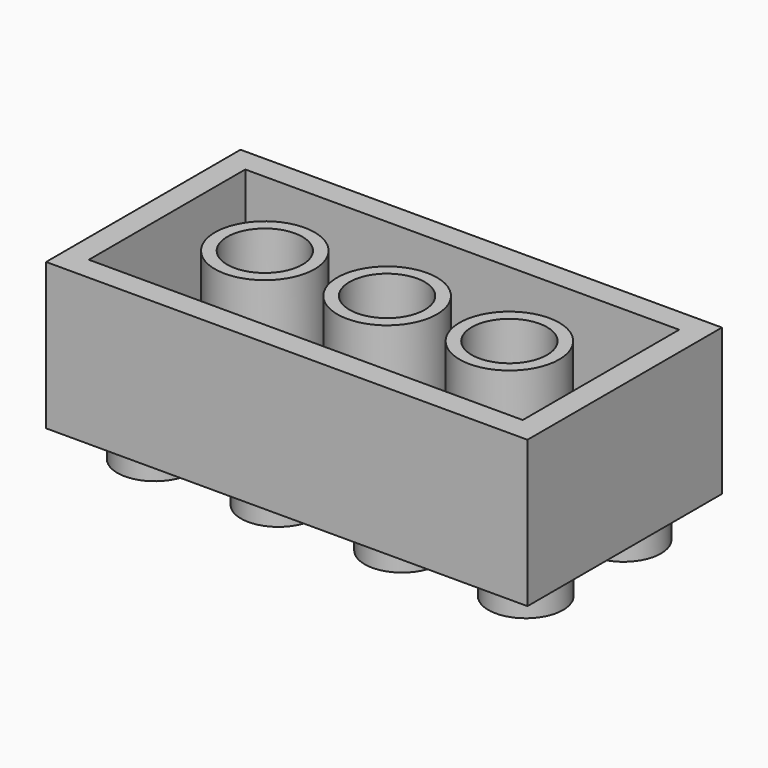
from build123d import *

# Parameters (mm, degrees)
F0_W     = 31.548
F0_H     = 15.928
F0_W_2   = 28.434
F0_H_2   = 12.814
F1_DEPTH = 9.6
F2_DEPTH = 25
F3_DEPTH = 1.557
F4_R     = 3.267
F4_R_2   = 2.467
F5_DEPTH = 8.043
F6_R     = 2.45
F7_DEPTH = 2.1


with BuildPart() as f1:
    # F0 (on Top) → F1 (new body)
    with BuildSketch(Plane.XY):
        with Locations((-21.131882, -12.566023)):
            Rectangle(F0_W, F0_H)
        with Locations((-21.131882, -12.566023)):
            Rectangle(F0_W_2, F0_H_2, mode=Mode.SUBTRACT)
        with Locations((-21.131882, -12.566023)):
            Rectangle(F0_W_2, F0_H_2)
    extrude(amount=F1_DEPTH)

    # F0 (on Top) → F2 (cut)
    with BuildSketch(Plane.XY):
        with Locations((-21.131882, -12.566023)):
            Rectangle(F0_W_2, F0_H_2)
    extrude(amount=F2_DEPTH, mode=Mode.SUBTRACT)

    # F0 (on Top) → F3 (join)
    with BuildSketch(Plane.XY):
        with Locations((-21.131882, -12.566023)):
            Rectangle(F0_W_2, F0_H_2)
    extrude(amount=F3_DEPTH)

    # F4 (on face) → F5 (join)
    with BuildSketch(Plane.XY.offset(1.557)):
        with Locations((-28.941882, -12.566023)):
            Circle(F4_R)
        with Locations((-28.941882, -12.566023)):
            Circle(F4_R_2, mode=Mode.SUBTRACT)
        with Locations((-20.927882, -12.566023)):
            Circle(F4_R)
        with Locations((-20.927882, -12.566023)):
            Circle(F4_R_2, mode=Mode.SUBTRACT)
        with Locations((-12.913882, -12.566023)):
            Circle(F4_R)
        with Locations((-12.913882, -12.566023)):
            Circle(F4_R_2, mode=Mode.SUBTRACT)
    extrude(amount=F5_DEPTH)

    # F6 (on face) → F7 (join)
    with BuildSketch(Plane(origin=(0, 0, 0), x_dir=(1, 0, 0), z_dir=(0, 0, -1))):
        with Locations((-32.948882, 16.573023)):
            Circle(F6_R)
        with Locations((-24.844882, 16.573023)):
            Circle(F6_R)
        with Locations((-16.740882, 16.573023)):
            Circle(F6_R)
        with Locations((-8.636882, 16.573023)):
            Circle(F6_R)
        with Locations((-8.636882, 8.559023)):
            Circle(F6_R)
        with Locations((-16.740882, 8.559023)):
            Circle(F6_R)
        with Locations((-24.844882, 8.559023)):
            Circle(F6_R)
        with Locations((-32.948882, 8.559023)):
            Circle(F6_R)
    extrude(amount=F7_DEPTH)


solid = f1.part
